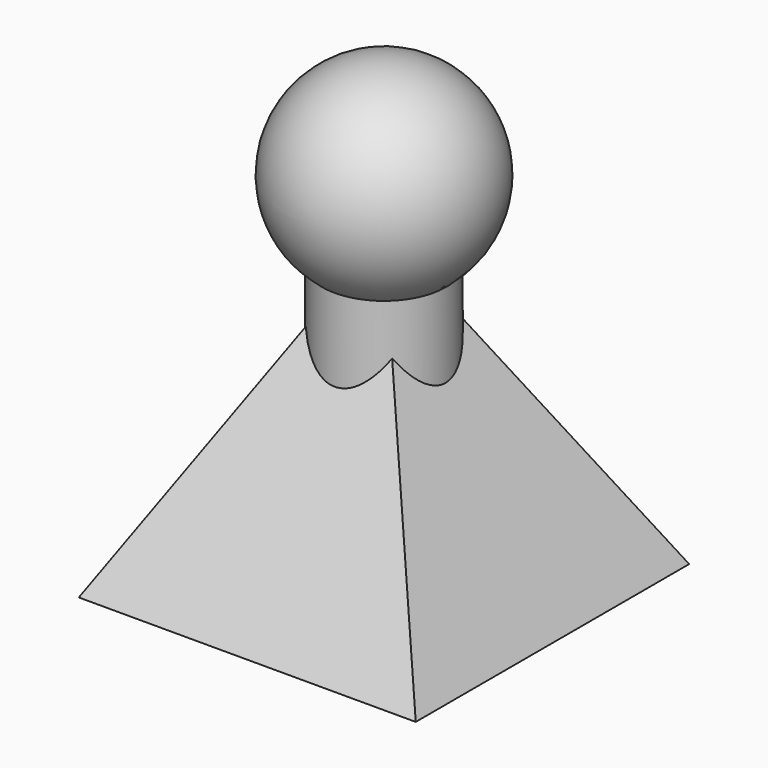
from build123d import *

# Parameters (mm, degrees)
F1_W          = 44.750304
F1_H          = 45.399402
F2_R          = 8.174725
F4_DEPTH      = 6.858
F4_DEPTH_BACK = 30.48


with BuildPart() as f3:
    # F1 (on Top) → F3 section 0
    with BuildSketch(Plane.XY, mode=Mode.PRIVATE) as f3_s0:
        Rectangle(F1_W, F1_H)
    loft([f3_s0.sketch, Vertex(0, 0, 40.64)])

    # F2 (on offset) → F4 (join, two sides)
    with BuildSketch(Plane.XY.offset(40.64)) as f4_sk:
        Circle(F2_R)
    extrude(amount=F4_DEPTH)
    extrude(f4_sk.sketch, amount=-F4_DEPTH_BACK)

    # F5 (on face) → F6 (revolve)
    with BuildSketch(Plane.XY.offset(47.498)):
        with BuildLine():
            Line((0, 8.174725), (0, 13.327389))
            ThreePointArc((0, 13.327389), (-13.327389, 0), (0, -13.327389))
            Line((0, -13.327389), (0, -8.174725))
            ThreePointArc((0, -8.174725), (-8.174725, 0), (0, 8.174725))
        make_face()
    revolve(axis=Axis((0, 0, 47.498), (0, -1, 0)))


solid = f3.part
